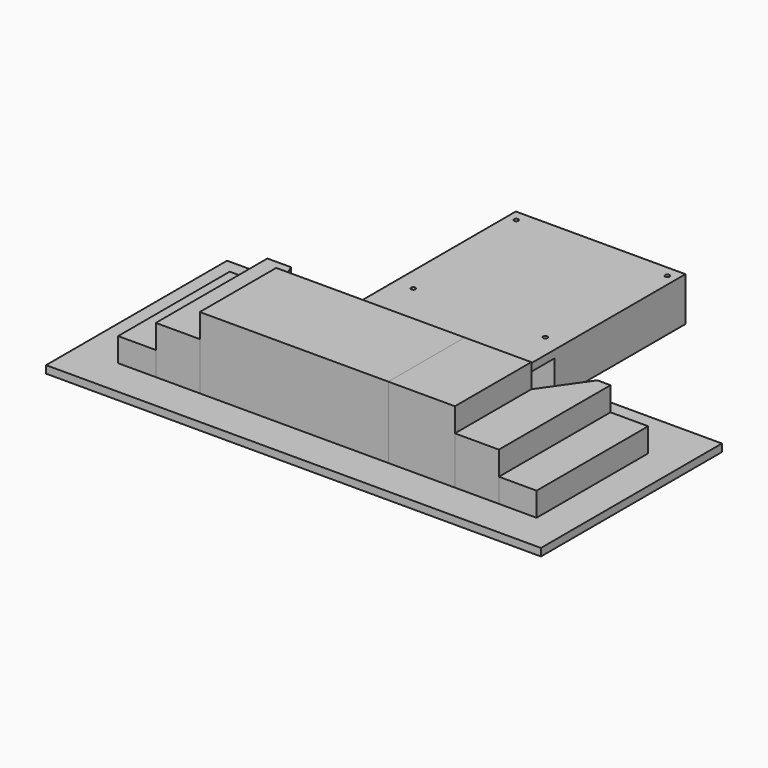
from build123d import *

# Parameters (mm, degrees)
F0_W          = 300
F0_H          = 1110
F1_DEPTH      = 190
F2_DEPTH      = 380
F0_W_2        = 1500
F0_H_2        = 760
F3_DEPTH      = 570
F0_W_3        = 530
F4_DEPTH      = 570
F6_DEPTH      = 300
F6_DEPTH_BACK = 1500
F7_W          = 1350
F7_H          = 1304
F8_DEPTH      = 289.5
F9_W          = 1350
F9_H          = 346
F9_H_2        = 1304
F10_DEPTH     = 60.18
F11_R         = 17.5
F12_DEPTH     = 349.68


with BuildPart() as f1:
    # F0 (on Top) → F1 (new body)
    with BuildSketch(Plane.XY):
        with Locations((-2000, 555)):
            Rectangle(F0_W, F0_H)
        with Locations((1030, 555)):
            Rectangle(F0_W, F0_H)
    extrude(amount=F1_DEPTH)


with BuildPart() as f2:
    # F0 (on Top) → F2 (new body)
    with BuildSketch(Plane.XY):
        Polygon((-1850, 0), (-1500, 0), (-1500, 760), (-1663.20768, 1110), (-1850, 1110), align=None)
        Polygon((530, 760), (530, 0), (880, 0), (880, 1110), (775.072638, 1110), align=None)
    extrude(amount=F2_DEPTH)


with BuildPart() as f3:
    # F0 (on Top) → F3 (new body)
    with BuildSketch(Plane.XY):
        with Locations((-750, 380)):
            Rectangle(F0_W_2, F0_H_2)
    extrude(amount=F3_DEPTH)


with BuildPart() as f4:
    # F0 (on Top) → F4 (new body, through all)
    with BuildSketch(Plane.XY):
        with Locations((265, 380)):
            Rectangle(F0_W_3, F0_H_2)
    extrude(amount=F4_DEPTH)


with BuildPart() as f6:
    # F5 (on face) → F6 (new body, two sides)
    with BuildSketch(Plane.XZ) as f6_sk:
        Polygon((1454.748034, -60), (1454.748034, 0), (0, 0), (-1500, 0), (-2483.175516, 0), (-2483.175516, -60), align=None)
    extrude(amount=F6_DEPTH)
    extrude(f6_sk.sketch, amount=-F6_DEPTH_BACK)


with BuildPart() as f8:
    # F7 (on Top) → F8 (new body)
    with BuildSketch(Plane.XY):
        with Locations((-401.034784, 1961.248209)):
            Rectangle(F7_W, F7_H)
    extrude(amount=F8_DEPTH)

    # F9 (on face) → F10 (join)
    with BuildSketch(Plane.XY.offset(289.5)):
        with Locations((-401.034784, 1136.248209)):
            Rectangle(F9_W, F9_H)
        with Locations((-401.034784, 1961.248209)):
            Rectangle(F9_W, F9_H_2)
    extrude(amount=F10_DEPTH)

    # F11 (on face) → F12 (cut, through all)
    with BuildSketch(Plane.XY.offset(349.68)):
        with Locations((199.965216, 2525.748209)):
            Circle(F11_R)
        with Locations((123.965216, 1406.748209)):
            Circle(F11_R)
        with Locations((-926.034784, 1406.748209)):
            Circle(F11_R)
        with Locations((-1002.034784, 2525.748209)):
            Circle(F11_R)
    extrude(amount=-F12_DEPTH, mode=Mode.SUBTRACT)


solid = Compound([f1.part, f2.part, f3.part, f4.part, f6.part, f8.part])
